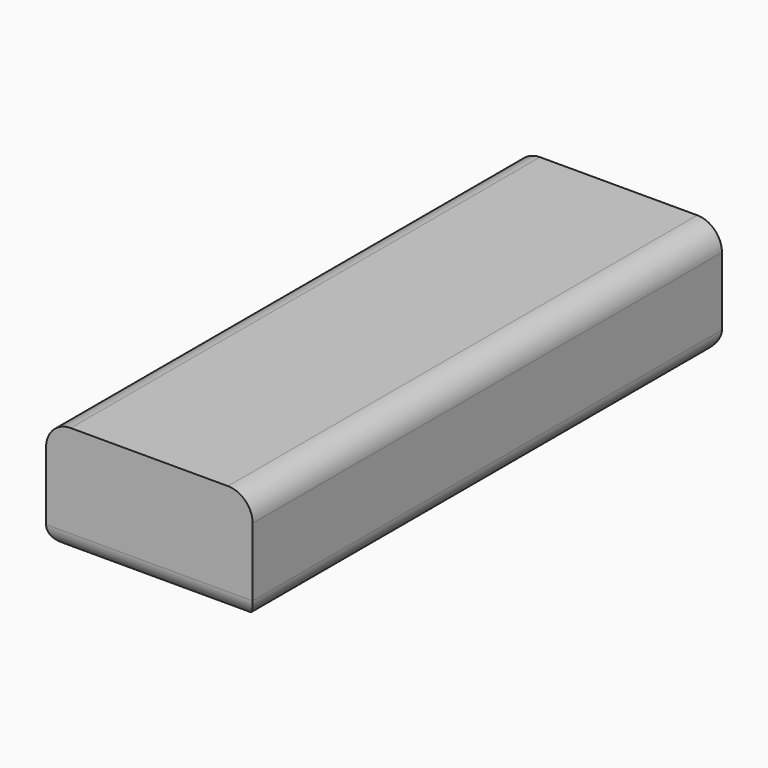
from build123d import *

# Parameters (mm, degrees)
F1_DEPTH = 150.876
F2_R     = 5.08


with BuildPart() as f1:
    # F0 (on Front) → F1 (new body)
    with BuildSketch(Plane.XZ):
        with BuildLine():
            Line((0, 22.650681), (0, 0))
            Line((0, 0), (53.119011, 0))
            Line((53.119011, 0), (53.119011, 22.650681))
            ThreePointArc((53.119011, 22.650681), (51.259139, 27.140809), (46.769011, 29.000681))
            Line((46.769011, 29.000681), (6.35, 29.000681))
            ThreePointArc((6.35, 29.000681), (1.859872, 27.140809), (0, 22.650681))
        make_face()
    extrude(amount=F1_DEPTH)

    # F2
    f2_edges = [f1.edges().sort_by_distance(p)[0] for p in [
        (53.119011, -75.438, 0),
        (26.559506, -150.876, 0),
        (0, -75.438, 0),
        (26.559506, 0, 0),
    ]]
    fillet(f2_edges, radius=F2_R)


solid = f1.part
